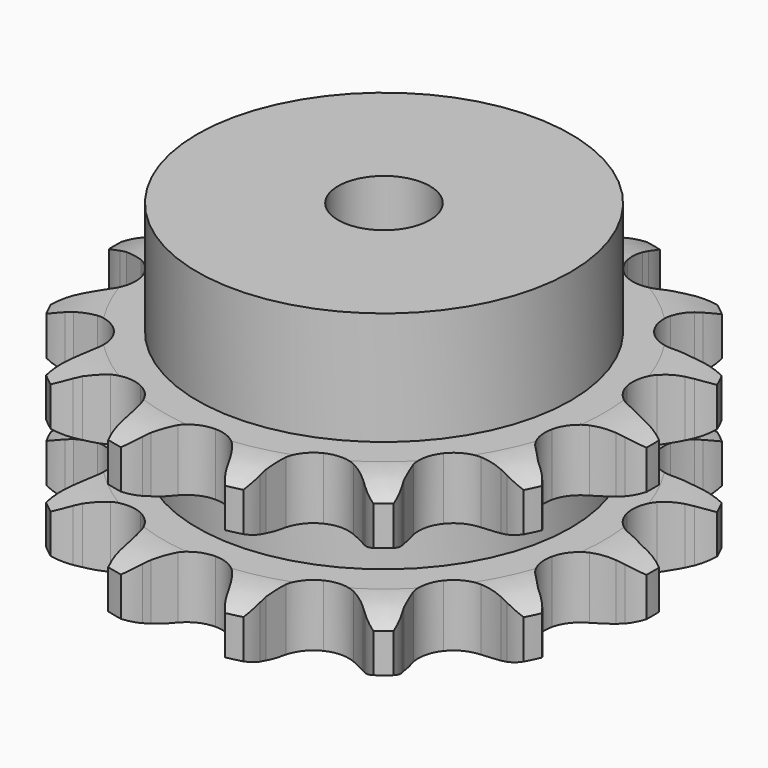
from build123d import *

# Parameters (mm, degrees)
PAD_DEPTH         = 30.3
SKETCH001_R       = 32.5
PAD001_DEPTH      = 50
SKETCH002_R       = 8
POCKET_DEPTH      = 0.001
POCKET_DEPTH_BACK = 50.001


with BuildPart() as part:
    # Sprocket → Pad (new body)
    with BuildSketch(Plane.XY):
        with BuildLine():
            ThreePointArc((-10.82608, 47.432157), (-8.804038, 45.633965), (-7.331265, 43.363922))
            Line((-7.331265, 43.363922), (-6.775639, 42.187726))
            ThreePointArc((-6.775639, 42.187726), (-5.849087, 40.50134), (-4.723923, 38.940442))
            ThreePointArc((-4.723923, 38.940442), (-2.613784, 37.289701), (0, 36.701686))
            ThreePointArc((0, 36.701686), (2.613784, 37.289701), (4.723923, 38.940442))
            ThreePointArc((4.723923, 38.940442), (5.849087, 40.50134), (6.775639, 42.187726))
            Line((6.775639, 42.187726), (7.331265, 43.363922))
            ThreePointArc((7.331265, 43.363922), (8.804038, 45.633965), (10.82608, 47.432157))
            ThreePointArc((10.82608, 47.432157), (11.867671, 44.93471), (12.209659, 42.25046))
            Line((12.209659, 42.25046), (12.199929, 40.949668))
            ThreePointArc((12.199929, 40.949668), (12.303027, 39.02827), (12.639517, 37.133759))
            ThreePointArc((12.639517, 37.133759), (13.824457, 34.730938), (15.924265, 33.067077))
            ThreePointArc((15.924265, 33.067077), (18.534333, 32.462781), (21.151732, 33.034492))
            Line((21.151732, 33.034492), (24.409208, 35.069989))
            ThreePointArc((24.409208, 35.069989), (24.906225, 35.489743), (25.420142, 35.888627))
            ThreePointArc((25.420142, 35.888627), (27.731999, 37.294853), (30.334003, 38.037637))
            ThreePointArc((30.334003, 38.037637), (30.188842, 35.335586), (29.33231, 32.768777))
            Line((29.33231, 32.768777), (28.759151, 31.601025))
            ThreePointArc((28.759151, 31.601025), (28.018376, 29.825173), (27.499545, 27.97228))
            ThreePointArc((27.499545, 27.97228), (27.524594, 25.293287), (28.694534, 22.883127))
            ThreePointArc((28.694534, 22.883127), (30.78393, 21.206209), (33.390181, 20.585656))
            Line((33.390181, 20.585656), (37.208234, 21.00621))
            ThreePointArc((37.208234, 21.00621), (37.838155, 21.168748), (38.474248, 21.305149))
            ThreePointArc((38.474248, 21.305149), (41.167298, 21.569038), (43.833905, 21.109296))
            ThreePointArc((43.833905, 21.109296), (42.530743, 18.737815), (40.645338, 16.796835))
            Line((40.645338, 16.796835), (39.622271, 15.993411))
            ThreePointArc((39.622271, 15.993411), (38.184342, 14.714834), (36.912952, 13.270548))
            ThreePointArc((36.912952, 13.270548), (35.773149, 10.84599), (35.781499, 8.166894))
            ThreePointArc((35.781499, 8.166894), (36.936392, 5.749488), (39.015295, 4.059579))
            Line((39.015295, 4.059579), (42.637713, 2.781893))
            ThreePointArc((42.637713, 2.781893), (43.275776, 2.655022), (43.908058, 2.501926))
            ThreePointArc((43.908058, 2.501926), (46.448909, 1.57121), (48.651964, 0))
            ThreePointArc((48.651964, 0), (46.448909, -1.57121), (43.908058, -2.501926))
            Line((43.908058, -2.501926), (42.637713, -2.781893))
            ThreePointArc((42.637713, -2.781893), (40.787431, -3.309958), (39.015295, -4.059579))
            ThreePointArc((39.015295, -4.059579), (36.936392, -5.749488), (35.781499, -8.166894))
            ThreePointArc((35.781499, -8.166894), (35.773149, -10.84599), (36.912952, -13.270548))
            Line((36.912952, -13.270548), (39.622271, -15.993411))
            ThreePointArc((39.622271, -15.993411), (40.142098, -16.384563), (40.645338, -16.796835))
            ThreePointArc((40.645338, -16.796835), (42.530743, -18.737815), (43.833905, -21.109296))
            ThreePointArc((43.833905, -21.109296), (41.167298, -21.569038), (38.474248, -21.305149))
            Line((38.474248, -21.305149), (37.208234, -21.00621))
            ThreePointArc((37.208234, -21.00621), (35.312069, -20.679172), (33.390181, -20.585656))
            ThreePointArc((33.390181, -20.585656), (30.78393, -21.206209), (28.694534, -22.883127))
            ThreePointArc((28.694534, -22.883127), (27.524594, -25.293287), (27.499545, -27.97228))
            Line((27.499545, -27.97228), (28.759151, -31.601025))
            ThreePointArc((28.759151, -31.601025), (29.057785, -32.178984), (29.33231, -32.768777))
            ThreePointArc((29.33231, -32.768777), (30.188842, -35.335586), (30.334003, -38.037637))
            ThreePointArc((30.334003, -38.037637), (27.731999, -37.294853), (25.420142, -35.888627))
            Line((25.420142, -35.888627), (24.409208, -35.069989))
            ThreePointArc((24.409208, -35.069989), (22.842718, -33.952622), (21.151732, -33.034492))
            ThreePointArc((21.151732, -33.034492), (18.534333, -32.462781), (15.924265, -33.067077))
            ThreePointArc((15.924265, -33.067077), (13.824457, -34.730938), (12.639517, -37.133759))
            Line((12.639517, -37.133759), (12.199929, -40.949668))
            ThreePointArc((12.199929, -40.949668), (12.218221, -41.599963), (12.209659, -42.25046))
            ThreePointArc((12.209659, -42.25046), (11.867671, -44.93471), (10.82608, -47.432157))
            ThreePointArc((10.82608, -47.432157), (8.804038, -45.633965), (7.331265, -43.363922))
            Line((7.331265, -43.363922), (6.775639, -42.187726))
            ThreePointArc((6.775639, -42.187726), (5.849087, -40.50134), (4.723923, -38.940442))
            ThreePointArc((4.723923, -38.940442), (2.613784, -37.289701), (0, -36.701686))
            ThreePointArc((0, -36.701686), (-2.613784, -37.289701), (-4.723923, -38.940442))
            Line((-4.723923, -38.940442), (-6.775639, -42.187726))
            ThreePointArc((-6.775639, -42.187726), (-7.041311, -42.78156), (-7.331265, -43.363922))
            ThreePointArc((-7.331265, -43.363922), (-8.804038, -45.633965), (-10.82608, -47.432157))
            ThreePointArc((-10.82608, -47.432157), (-11.867671, -44.93471), (-12.209659, -42.25046))
            Line((-12.209659, -42.25046), (-12.199929, -40.949668))
            ThreePointArc((-12.199929, -40.949668), (-12.303027, -39.02827), (-12.639517, -37.133759))
            ThreePointArc((-12.639517, -37.133759), (-13.824457, -34.730938), (-15.924265, -33.067077))
            ThreePointArc((-15.924265, -33.067077), (-18.534333, -32.462781), (-21.151732, -33.034492))
            Line((-21.151732, -33.034492), (-24.409208, -35.069989))
            ThreePointArc((-24.409208, -35.069989), (-24.906225, -35.489743), (-25.420142, -35.888627))
            ThreePointArc((-25.420142, -35.888627), (-27.731999, -37.294853), (-30.334003, -38.037637))
            ThreePointArc((-30.334003, -38.037637), (-30.188842, -35.335586), (-29.33231, -32.768777))
            Line((-29.33231, -32.768777), (-28.759151, -31.601025))
            ThreePointArc((-28.759151, -31.601025), (-28.018376, -29.825173), (-27.499545, -27.97228))
            ThreePointArc((-27.499545, -27.97228), (-27.524594, -25.293287), (-28.694534, -22.883127))
            ThreePointArc((-28.694534, -22.883127), (-30.78393, -21.206209), (-33.390181, -20.585656))
            Line((-33.390181, -20.585656), (-37.208234, -21.00621))
            ThreePointArc((-37.208234, -21.00621), (-37.838155, -21.168748), (-38.474248, -21.305149))
            ThreePointArc((-38.474248, -21.305149), (-41.167298, -21.569038), (-43.833905, -21.109296))
            ThreePointArc((-43.833905, -21.109296), (-42.530743, -18.737815), (-40.645338, -16.796835))
            Line((-40.645338, -16.796835), (-39.622271, -15.993411))
            ThreePointArc((-39.622271, -15.993411), (-38.184342, -14.714834), (-36.912952, -13.270548))
            ThreePointArc((-36.912952, -13.270548), (-35.773149, -10.84599), (-35.781499, -8.166894))
            ThreePointArc((-35.781499, -8.166894), (-36.936392, -5.749488), (-39.015295, -4.059579))
            Line((-39.015295, -4.059579), (-42.637713, -2.781893))
            ThreePointArc((-42.637713, -2.781893), (-43.275776, -2.655022), (-43.908058, -2.501926))
            ThreePointArc((-43.908058, -2.501926), (-46.448909, -1.57121), (-48.651964, 0))
            ThreePointArc((-48.651964, 0), (-46.448909, 1.57121), (-43.908058, 2.501926))
            Line((-43.908058, 2.501926), (-42.637713, 2.781893))
            ThreePointArc((-42.637713, 2.781893), (-40.787431, 3.309958), (-39.015295, 4.059579))
            ThreePointArc((-39.015295, 4.059579), (-36.936392, 5.749488), (-35.781499, 8.166894))
            ThreePointArc((-35.781499, 8.166894), (-35.773149, 10.84599), (-36.912952, 13.270548))
            Line((-36.912952, 13.270548), (-39.622271, 15.993411))
            ThreePointArc((-39.622271, 15.993411), (-40.142098, 16.384563), (-40.645338, 16.796835))
            ThreePointArc((-40.645338, 16.796835), (-42.530743, 18.737815), (-43.833905, 21.109296))
            ThreePointArc((-43.833905, 21.109296), (-41.167298, 21.569038), (-38.474248, 21.305149))
            Line((-38.474248, 21.305149), (-37.208234, 21.00621))
            ThreePointArc((-37.208234, 21.00621), (-35.312069, 20.679172), (-33.390181, 20.585656))
            ThreePointArc((-33.390181, 20.585656), (-30.78393, 21.206209), (-28.694534, 22.883127))
            ThreePointArc((-28.694534, 22.883127), (-27.524594, 25.293287), (-27.499545, 27.97228))
            Line((-27.499545, 27.97228), (-28.759151, 31.601025))
            ThreePointArc((-28.759151, 31.601025), (-29.057785, 32.178984), (-29.33231, 32.768777))
            ThreePointArc((-29.33231, 32.768777), (-30.188842, 35.335586), (-30.334003, 38.037637))
            ThreePointArc((-30.334003, 38.037637), (-27.731999, 37.294853), (-25.420142, 35.888627))
            Line((-25.420142, 35.888627), (-24.409208, 35.069989))
            ThreePointArc((-24.409208, 35.069989), (-22.842718, 33.952622), (-21.151732, 33.034492))
            ThreePointArc((-21.151732, 33.034492), (-18.534333, 32.462781), (-15.924265, 33.067077))
            ThreePointArc((-15.924265, 33.067077), (-13.824457, 34.730938), (-12.639517, 37.133759))
            Line((-12.639517, 37.133759), (-12.199929, 40.949668))
            ThreePointArc((-12.199929, 40.949668), (-12.218221, 41.599963), (-12.209659, 42.25046))
            ThreePointArc((-12.209659, 42.25046), (-11.867671, 44.93471), (-10.82608, 47.432157))
        make_face()
    extrude(amount=PAD_DEPTH)

    # Sketch → Groove (revolve, cut)
    with BuildSketch(Plane.XZ):
        with BuildLine():
            ThreePointArc((38.314719, 0), (42.673618, 0.506758), (46.8, 2))
            Line((46.8, 2), (46.8, 8.8))
            ThreePointArc((46.8, 8.8), (42.673618, 10.293242), (38.314719, 10.8))
            Line((32.5, 10.8), (38.314719, 10.8))
            Line((32.5, 19.5), (32.5, 10.8))
            Line((38.314719, 19.5), (32.5, 19.5))
            ThreePointArc((38.314719, 19.5), (42.673618, 20.006758), (46.8, 21.5))
            Line((46.8, 21.5), (46.8, 28.3))
            ThreePointArc((46.8, 28.3), (42.673618, 29.793242), (38.314719, 30.3))
            Line((38.314719, 30.3), (56.8, 30.3))
            Line((56.8, 30.3), (56.8, 0))
            Line((38.314719, 0), (56.8, 0))
        make_face()
    revolve(axis=Axis((0, 0, 0), (0, 0, 1)), mode=Mode.SUBTRACT)

    # Sketch001 → Pad001 (join)
    with BuildSketch(Plane.XY):
        Circle(SKETCH001_R)
    extrude(amount=PAD001_DEPTH)

    # Sketch002 → Pocket (cut, two sides)
    with BuildSketch(Plane.XY) as pocket_sk:
        Circle(SKETCH002_R)
    extrude(amount=-POCKET_DEPTH, mode=Mode.SUBTRACT)
    extrude(pocket_sk.sketch, amount=POCKET_DEPTH_BACK, mode=Mode.SUBTRACT)


solid = part.part
